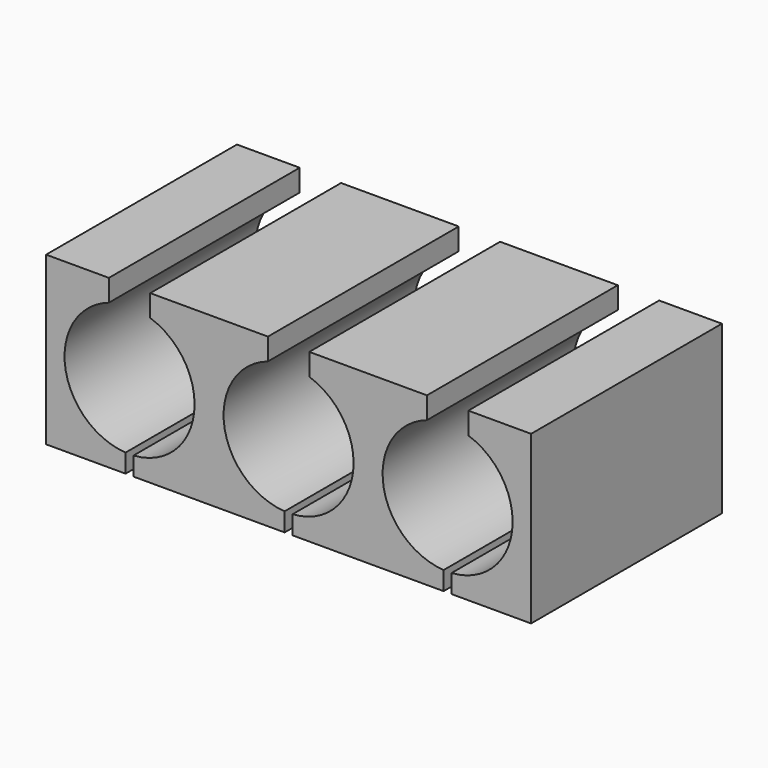
from build123d import *

# Parameters (mm, degrees)
F1_DEPTH = 30
F3_W     = 1
F3_H     = 2.340305
F4_DEPTH = 20


with BuildPart() as f1:
    # F0 (on Front) → F1 (new body)
    with BuildSketch(Plane.XZ):
        with BuildLine():
            Line((-39.669828, 23.200569), (-47.569828, 23.200569))
            Line((-47.569828, 23.200569), (-47.569828, 2.200569))
            Line((-47.569828, 2.200569), (13.430172, 2.200569))
            Line((13.430172, 2.200569), (13.430172, 23.200569))
            Line((13.430172, 23.200569), (5.530172, 23.200569))
            Line((5.530172, 23.200569), (5.530172, 20.451093))
            ThreePointArc((5.530172, 20.451093), (9.566648, 17.474227), (11.105172, 12.700569))
            ThreePointArc((11.105172, 12.700569), (-1.843486, 6.064093), (0.330172, 20.451093))
            Line((0.330172, 20.451093), (0.330172, 23.200569))
            Line((0.330172, 23.200569), (-14.469828, 23.200569))
            Line((-14.469828, 23.200569), (-14.469828, 20.451093))
            ThreePointArc((-14.469828, 20.451093), (-10.433352, 17.474227), (-8.894828, 12.700569))
            ThreePointArc((-8.894828, 12.700569), (-21.843486, 6.064093), (-19.669828, 20.451093))
            Line((-19.669828, 20.451093), (-19.669828, 23.200569))
            Line((-19.669828, 23.200569), (-34.469828, 23.200569))
            Line((-34.469828, 23.200569), (-34.469828, 20.451093))
            ThreePointArc((-34.469828, 20.451093), (-30.433352, 17.474227), (-28.894828, 12.700569))
            ThreePointArc((-28.894828, 12.700569), (-41.843486, 6.064093), (-39.669828, 20.451093))
            Line((-39.669828, 20.451093), (-39.669828, 23.200569))
        make_face()
    extrude(amount=F1_DEPTH)

    # F3 (on face) → F4 (cut)
    with BuildSketch(Plane.XZ.offset(30)):
        with Locations((-37.069828, 3.370721)):
            Rectangle(F3_W, F3_H)
        with Locations((-17.069828, 3.370721)):
            Rectangle(F3_W, F3_H)
        with Locations((2.930172, 3.370721)):
            Rectangle(F3_W, F3_H)
    extrude(amount=-F4_DEPTH, mode=Mode.SUBTRACT)


solid = f1.part
